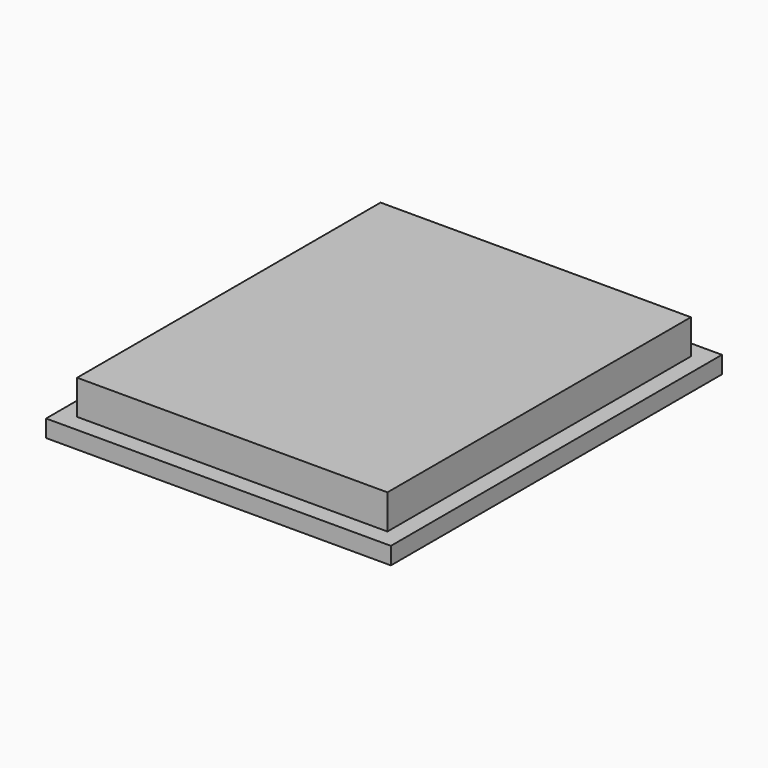
from build123d import *

# Parameters (mm, degrees)
F0_W     = 45
F0_H     = 55
F1_DEPTH = 7.5
F0_W_2   = 2.5
F2_DEPTH = 2.5


with BuildPart() as f1:
    # F0 (on Top) → F1 (new body)
    with BuildSketch(Plane.XY):
        with Locations((-24.820926, 30.181236)):
            Rectangle(F0_W, F0_H)
    extrude(amount=F1_DEPTH)

    # F0 (on Top) → F2 (join)
    with BuildSketch(Plane.XY):
        Polygon((-47.320926, 2.681236), (-49.820926, 2.681236), (-49.820926, 0.181236), (0.179074, 0.181236), (0.179074, 2.681236), (-2.320926, 2.681236), align=None)
        with Locations((-48.570926, 30.181236)):
            Rectangle(F0_W_2, F0_H)
        Polygon((0.179074, 60.181236), (-49.820926, 60.181236), (-49.820926, 57.681236), (-47.320926, 57.681236), (-2.320926, 57.681236), (0.179074, 57.681236), align=None)
        with Locations((-1.070926, 30.181236)):
            Rectangle(F0_W_2, F0_H)
    extrude(amount=F2_DEPTH)


solid = f1.part
